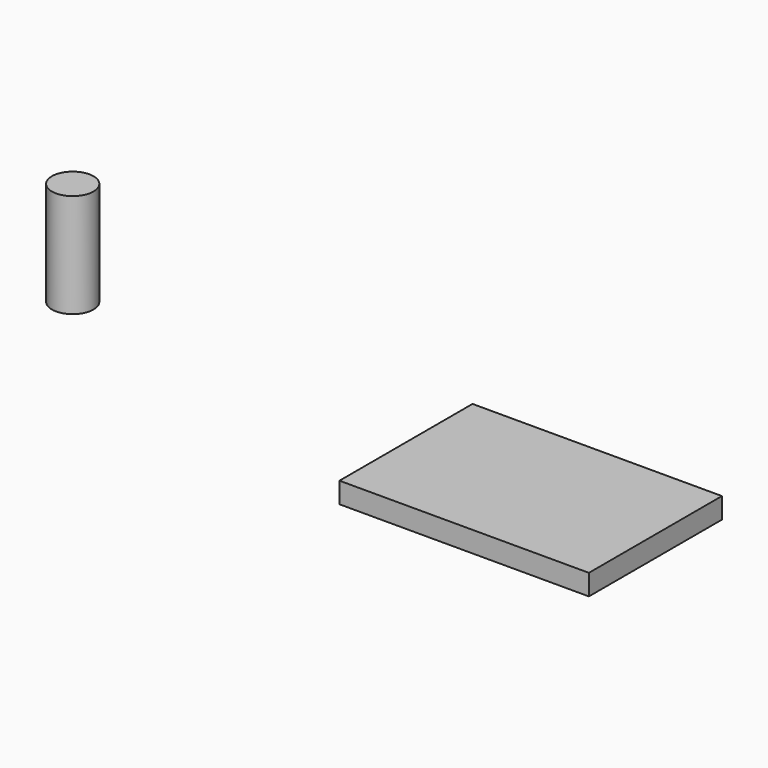
from build123d import *

# Parameters (mm, degrees)
F0_W     = 60
F0_H     = 40
F1_DEPTH = 5
F0_R     = 5
F2_DEPTH = 25


with BuildPart() as f1:
    # F0 (on Top) → F1 (new body)
    with BuildSketch(Plane.XY):
        Rectangle(F0_W, F0_H)
    extrude(amount=F1_DEPTH)


with BuildPart() as f2:
    # F0 (on Top) → F2 (new body)
    with BuildSketch(Plane.XY):
        with Locations((-120.569842, 12.989191)):
            Circle(F0_R)
    extrude(amount=F2_DEPTH)


solid = Compound([f1.part, f2.part])
